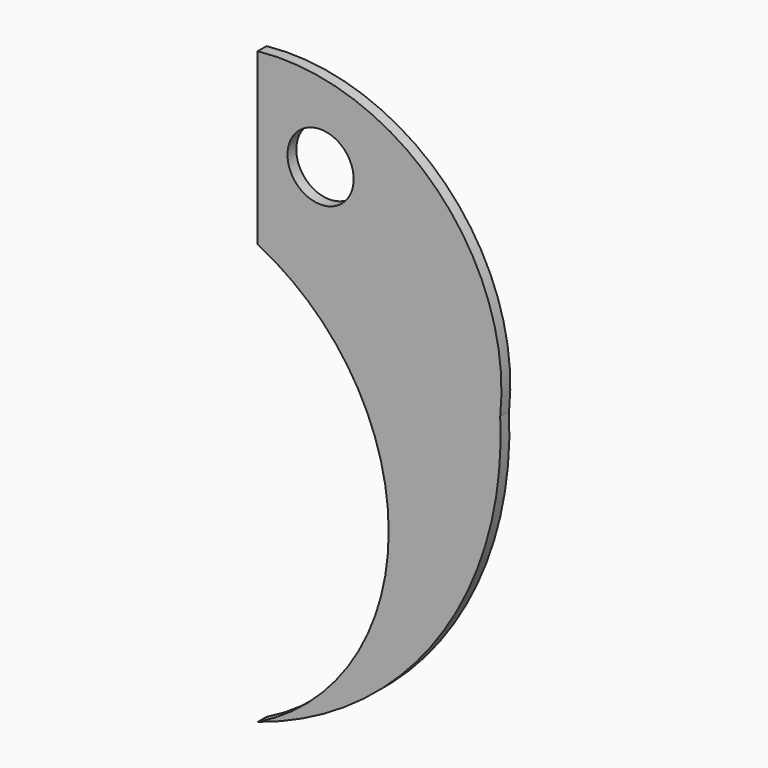
from build123d import *

# Parameters (mm, degrees)
F0_R     = 3.81
F1_DEPTH = 1.27


with BuildPart() as f1:
    # F0 (on Front) → F1 (new body)
    with BuildSketch(Plane.XZ):
        with BuildLine():
            ThreePointArc((-21.643636, -43.49662), (-0.884123, -28.24485), (6.26268, -3.496172))
            ThreePointArc((6.26268, -3.496172), (-1.01093, 17.150226), (-21.643636, 24.462586))
            Line((-21.643636, 24.462586), (-21.643636, 4.866618))
            ThreePointArc((-21.643636, 4.866618), (-6.572211, -19.315001), (-21.643636, -43.49662))
        make_face()
        with Locations((-14.411999, 15.087807)):
            Circle(F0_R, mode=Mode.SUBTRACT)
    extrude(amount=F1_DEPTH)


solid = f1.part
